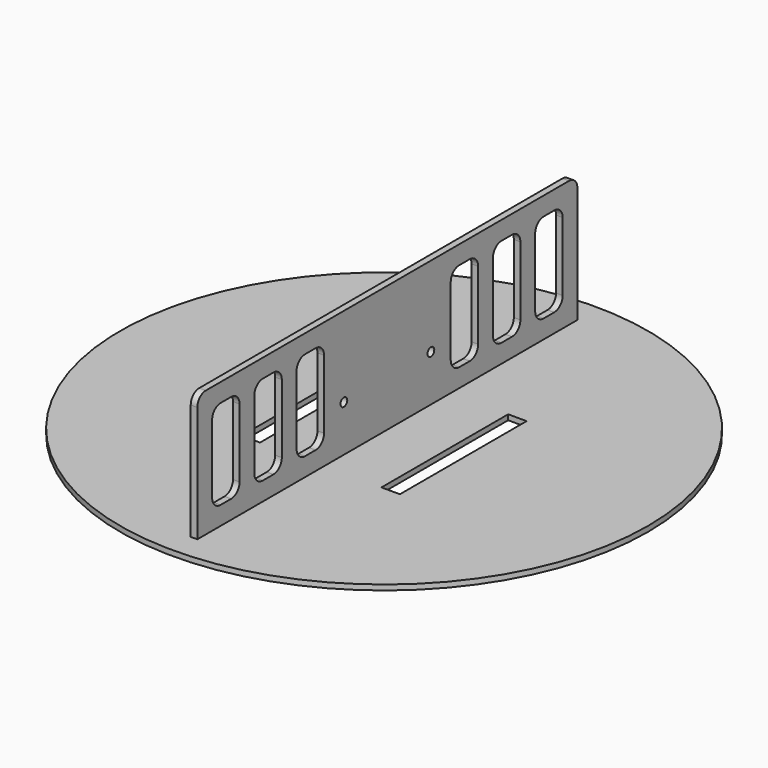
from build123d import *

# Parameters (mm, degrees)
F0_R     = 100
F0_W     = 7
F0_H     = 60
F0_W_2   = 2.5
F0_H_2   = 180
F1_DEPTH = 2
F2_DEPTH = 50
F3_R     = 1.6
F3_W     = 13
F3_H     = 34
F4_DEPTH = 4
F5_R     = 4


with BuildPart() as f1:
    # F0 (on Top) → F1 (new body)
    with BuildSketch(Plane.XY):
        Circle(F0_R)
        with Locations((-26.5, 0)):
            Rectangle(F0_W, F0_H, mode=Mode.SUBTRACT)
        Rectangle(F0_W_2, F0_H_2, mode=Mode.SUBTRACT)
        with Locations((26.5, 0)):
            Rectangle(F0_W, F0_H, mode=Mode.SUBTRACT)
    extrude(amount=F1_DEPTH)

    # F0 (on Top) → F2 (join)
    with BuildSketch(Plane.XY):
        Rectangle(F0_W_2, F0_H_2)
    extrude(amount=F2_DEPTH)

    # F3 (on face) → F4 (cut)
    with BuildSketch(Plane.YZ.offset(1.25)):
        with Locations((-20.6, 19.55)):
            Circle(F3_R)
        with Locations((20.6, 19.55)):
            Circle(F3_R)
        with Locations((-76.5, 26)):
            Rectangle(F3_W, F3_H)
        with Locations((-56.5, 26)):
            Rectangle(F3_W, F3_H)
        with Locations((-36.5, 26)):
            Rectangle(F3_W, F3_H)
        with Locations((76.5, 26)):
            Rectangle(F3_W, F3_H)
        with Locations((56.5, 26)):
            Rectangle(F3_W, F3_H)
        with Locations((36.5, 26)):
            Rectangle(F3_W, F3_H)
    extrude(amount=-F4_DEPTH, mode=Mode.SUBTRACT)

    # F5
    f5_edges = [f1.edges().sort_by_distance(p)[0] for p in [
        (0, -90, 50),
        (0, 90, 50),
        (0, 50, 9),
        (0, 63, 9),
        (0, 83, 9),
        (0, 70, 9),
        (0, 30, 9),
        (0, -43, 9),
        (0, 83, 43),
        (0, 63, 43),
        (0, 43, 43),
        (0, -30, 43),
        (0, -50, 43),
        (0, -70, 43),
        (0, -70, 9),
        (0, -50, 9),
        (0, -30, 9),
        (0, -63, 9),
        (0, -83, 9),
        (0, 70, 43),
        (0, 50, 43),
        (0, 30, 43),
        (0, -63, 43),
        (0, -43, 43),
        (0, -83, 43),
        (0, 43, 9),
    ]]
    fillet(f5_edges, radius=F5_R)


solid = f1.part
